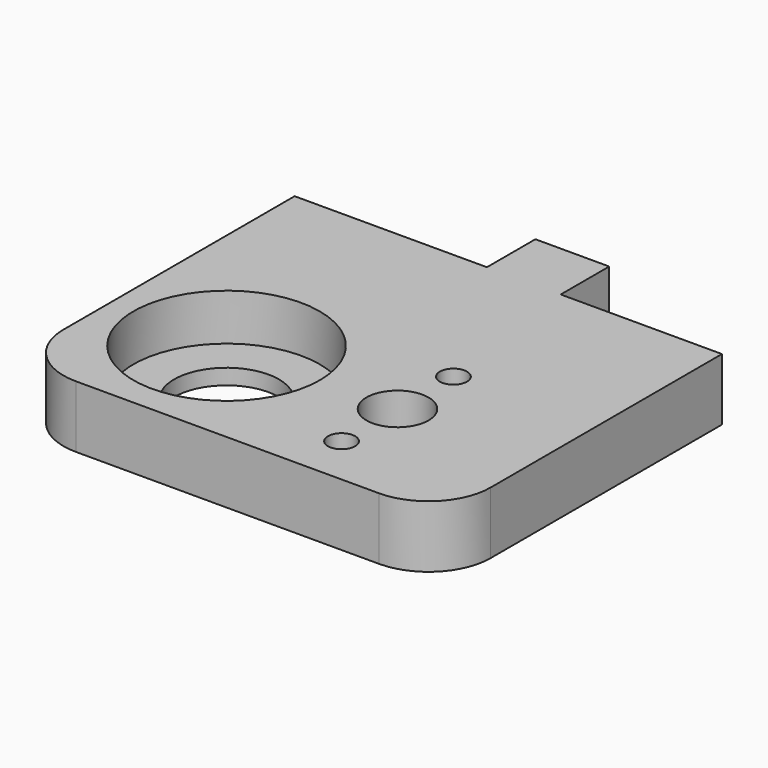
from build123d import *

# Parameters (mm, degrees)
F0_R     = 12
F0_R_2   = 1.75
F0_R_3   = 4
F1_DEPTH = 8
F0_R_4   = 6.75
F2_DEPTH = 2
F3_R     = 8
F4_R     = 1.5
F5_DEPTH = 10


with BuildPart() as f1:
    # F0 (on Top) → F1 (new body)
    with BuildSketch(Plane.XY):
        Polygon((30.25, 0), (20.75, 0), (20.75, -7.8), (0, -7.8), (-4, -7.8), (-4, -53), (0, -53), (51, -53), (51, -7.8), (30.25, -7.8), align=None)
        with Locations((11, -37.5)):
            Circle(F0_R, mode=Mode.SUBTRACT)
        with Locations((33, -46.5)):
            Circle(F0_R_2, mode=Mode.SUBTRACT)
        with Locations((33, -37.5)):
            Circle(F0_R_3, mode=Mode.SUBTRACT)
        with Locations((33, -28.5)):
            Circle(F0_R_2, mode=Mode.SUBTRACT)
    extrude(amount=F1_DEPTH)

    # F0 (on Top) → F2 (join)
    with BuildSketch(Plane.XY):
        with Locations((11, -37.5)):
            Circle(F0_R)
        with Locations((11, -37.5)):
            Circle(F0_R_4, mode=Mode.SUBTRACT)
    extrude(amount=F2_DEPTH)

    # F3
    f3_edges = [f1.edges().sort_by_distance(p)[0] for p in [
        (-4, -53, 4),
        (51, -53, 4),
    ]]
    fillet(f3_edges, radius=F3_R)

    # F4 (on face) → F5 (cut)
    with BuildSketch(Plane(origin=(0, -7.8, 0), x_dir=(-1, 0, 0), z_dir=(0, 1, 0))):
        with Locations((-41.25, 4)):
            Circle(F4_R)
        with Locations((-9.75, 4)):
            Circle(F4_R)
    extrude(amount=-F5_DEPTH, mode=Mode.SUBTRACT)


solid = f1.part
